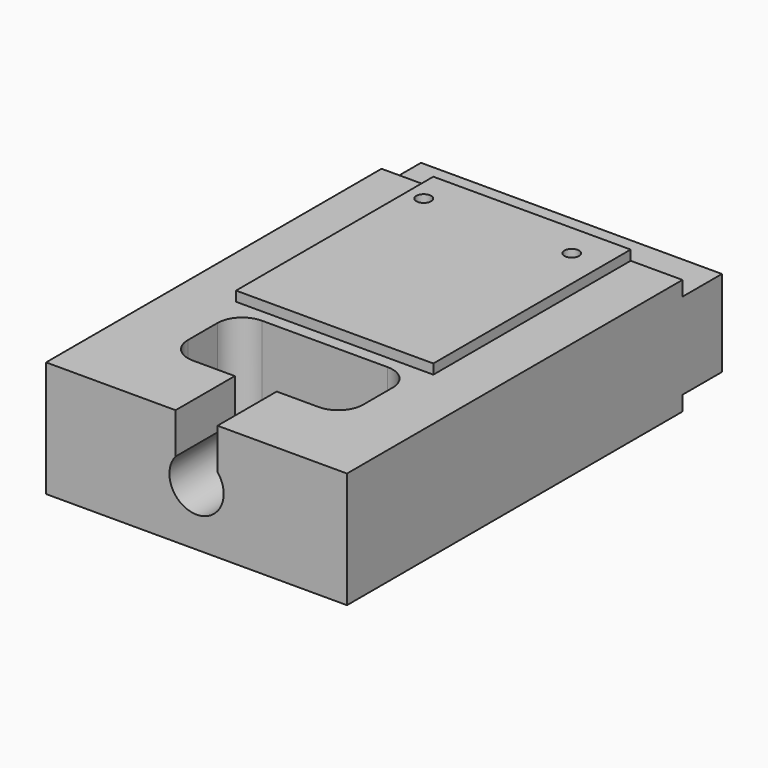
from build123d import *

# Parameters (mm, degrees)
F4_DEPTH  = 12.2
F6_W      = 8
F6_H      = 10
F7_DEPTH  = 5.5
F8_R      = 0.3
F9_DEPTH  = 5.501
F11_DEPTH = 3


with BuildPart() as f4:
    # F3 (on Right) → F4 (new body)
    with BuildSketch(Plane.YZ):
        Polygon((0, 2.35), (0, 0), (0, -2.35), (17, -2.35), (17, -1.75), (19, -1.75), (19, 0), (19, 1.75), (17, 1.75), (17, 2.35), align=None)
    extrude(amount=F4_DEPTH)

    # F6 (on offset) → F7 (join)
    with BuildSketch(Plane.XY.offset(2.75)):
        with Locations((6.1, 12)):
            Rectangle(F6_W, F6_H)
    extrude(amount=-F7_DEPTH)

    # F8 (on offset) → F9 (cut, through all)
    with BuildSketch(Plane.XY.offset(2.75)):
        with BuildLine():
            ThreePointArc((2.55, 4), (2.8428932188, 3.2928932188), (3.55, 3))
            Line((3.55, 3), (8.65, 3))
            ThreePointArc((8.65, 3), (9.3571067812, 3.2928932188), (9.65, 4))
            Line((9.65, 4), (9.65, 5.5))
            ThreePointArc((9.65, 5.5), (9.3571067812, 6.2071067812), (8.65, 6.5))
            Line((8.65, 6.5), (3.55, 6.5))
            ThreePointArc((3.55, 6.5), (2.8428932188, 6.2071067812), (2.55, 5.5))
            Line((2.55, 5.5), (2.55, 4))
        make_face()
        with Locations((2.8, 15.64)):
            Circle(F8_R)
        with Locations((8.8, 15.64)):
            Circle(F8_R)
    extrude(amount=-F9_DEPTH, mode=Mode.SUBTRACT)

    # F10 (on face) → F11 (cut, through all)
    with BuildSketch(Plane.XZ):
        with BuildLine():
            Line((6.95, 2.35), (5.25, 2.35))
            Line((5.25, 2.35), (5.25, 0.6982120022))
            ThreePointArc((5.25, 0.6982120022), (6.1, -1.1), (6.95, 0.6982120022))
            Line((6.95, 0.6982120022), (6.95, 2.35))
        make_face()
    extrude(amount=-F11_DEPTH, mode=Mode.SUBTRACT)


solid = f4.part
